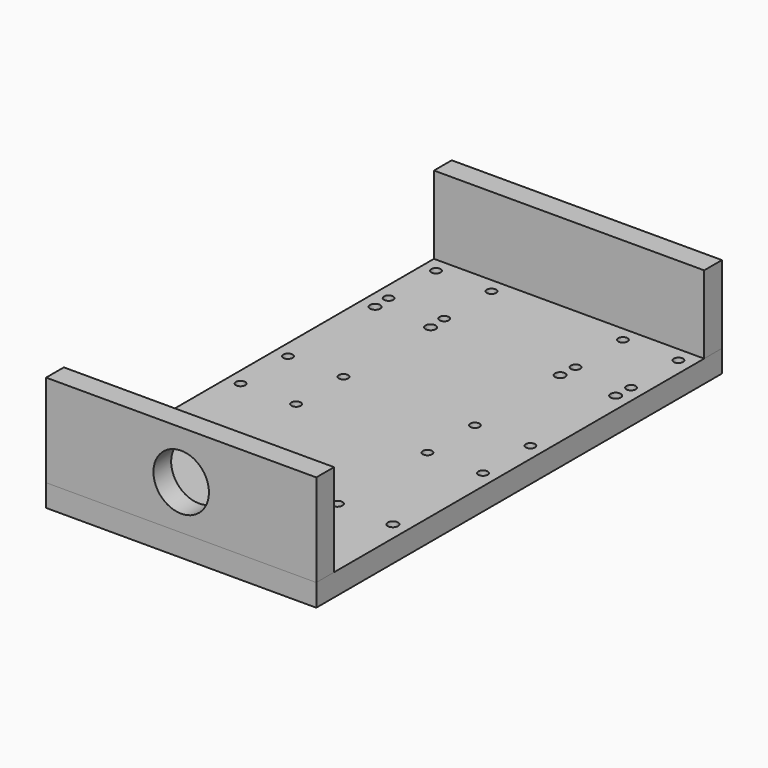
from build123d import *

# Parameters (mm, degrees)
F0_W     = 146
F0_H     = 274
F0_R     = 2.75
F0_R_2   = 2.5
F1_DEPTH = 12
F4_R     = 15
F5_DEPTH = 12
F7_DEPTH = 12
F8_SIZE  = 2


with BuildPart() as f1:
    # F0 (on Top) → F1 (new body)
    with BuildSketch(Plane.XY):
        Rectangle(F0_W, F0_H)
        with Locations((-65, -75.25)):
            Circle(F0_R, mode=Mode.SUBTRACT)
        with Locations((-35, -75.25)):
            Circle(F0_R, mode=Mode.SUBTRACT)
        with Locations((-65.499999, -15.000014)):
            Circle(F0_R_2, mode=Mode.SUBTRACT)
        with Locations((-35.499999, -15.000014)):
            Circle(F0_R_2, mode=Mode.SUBTRACT)
        with Locations((35, -75.25)):
            Circle(F0_R, mode=Mode.SUBTRACT)
        with Locations((65, -75.25)):
            Circle(F0_R, mode=Mode.SUBTRACT)
        with Locations((35.500001, -15.000014)):
            Circle(F0_R_2, mode=Mode.SUBTRACT)
        with Locations((65.500001, -15.000014)):
            Circle(F0_R_2, mode=Mode.SUBTRACT)
        with Locations((-65.499999, 16.999986)):
            Circle(F0_R_2, mode=Mode.SUBTRACT)
        with Locations((-35.499999, 16.999986)):
            Circle(F0_R_2, mode=Mode.SUBTRACT)
        with Locations((-65, 75.25)):
            Circle(F0_R, mode=Mode.SUBTRACT)
        with Locations((-65.499999, 84.999986)):
            Circle(F0_R_2, mode=Mode.SUBTRACT)
        with Locations((-65.499999, 116.999986)):
            Circle(F0_R_2, mode=Mode.SUBTRACT)
        with Locations((-35, 75.25)):
            Circle(F0_R, mode=Mode.SUBTRACT)
        with Locations((-35.499999, 84.999986)):
            Circle(F0_R_2, mode=Mode.SUBTRACT)
        with Locations((-35.499999, 116.999986)):
            Circle(F0_R_2, mode=Mode.SUBTRACT)
        with Locations((35.500001, 16.999986)):
            Circle(F0_R_2, mode=Mode.SUBTRACT)
        with Locations((65.500001, 16.999986)):
            Circle(F0_R_2, mode=Mode.SUBTRACT)
        with Locations((35, 75.25)):
            Circle(F0_R, mode=Mode.SUBTRACT)
        with Locations((35.500001, 84.999986)):
            Circle(F0_R_2, mode=Mode.SUBTRACT)
        with Locations((35.500001, 116.999986)):
            Circle(F0_R_2, mode=Mode.SUBTRACT)
        with Locations((65, 75.25)):
            Circle(F0_R, mode=Mode.SUBTRACT)
        with Locations((65.500001, 84.999986)):
            Circle(F0_R_2, mode=Mode.SUBTRACT)
        with Locations((65.500001, 116.999986)):
            Circle(F0_R_2, mode=Mode.SUBTRACT)
    extrude(amount=F1_DEPTH)

    # F8
    f8_edges = [f1.edges().sort_by_distance(p)[0] for p in [
        (-67.75, -75.25, 0),
        (-37.75, -75.25, 0),
        (32.25, -75.25, 0),
        (62.25, -75.25, 0),
        (62.25, 75.25, 0),
        (32.25, 75.25, 0),
        (-37.75, 75.25, 0),
        (-67.75, 75.25, 0),
    ]]
    chamfer(f8_edges, length=F8_SIZE)


with BuildPart() as f5:
    # F4 (on offset) → F5 (new body)
    with BuildSketch(Plane.XZ.offset(137)):
        Polygon((-73, 12), (0, 12), (73, 12), (73, 62), (0, 62), (-73, 62), align=None)
        with Locations((0, 36)):
            Circle(F4_R, mode=Mode.SUBTRACT)
    extrude(amount=-F5_DEPTH)


with BuildPart() as f7:
    # F6 (on offset) → F7 (new body)
    with BuildSketch(Plane.XZ.offset(-137)):
        Polygon((-73, 12), (0, 12), (73, 12), (73, 54), (0, 54), (-73, 54), align=None)
    extrude(amount=F7_DEPTH)


solid = Compound([f1.part, f5.part, f7.part])
